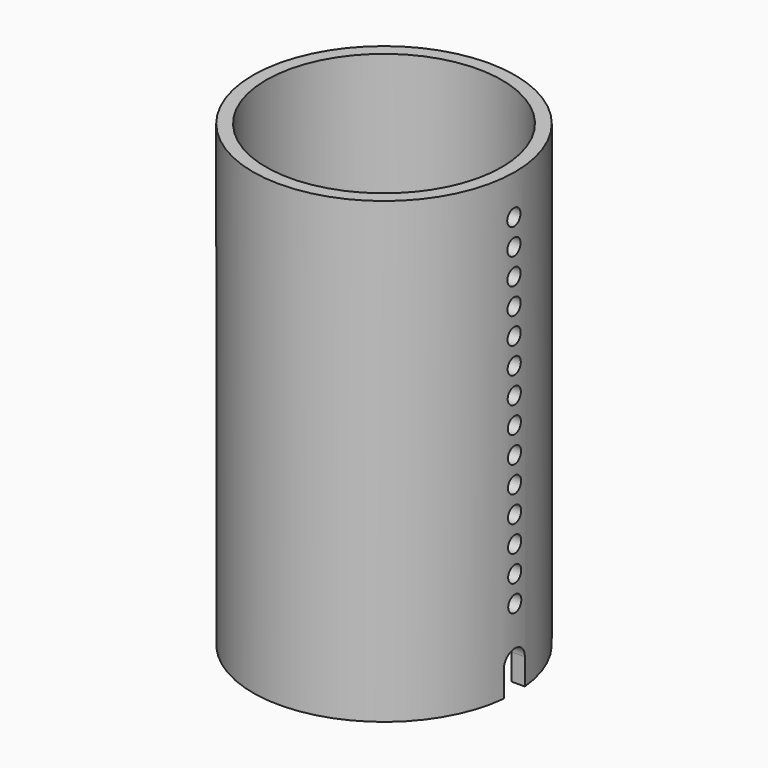
from build123d import *

# Parameters (mm, degrees)
SKETCH006_R      = 1.25
EXTRUDE008_DEPTH = 2
EXTRUDE005_DEPTH = 20
SKETCH_R         = 20
SKETCH_R_2       = 18
EXTRUDE_DEPTH    = 70


with BuildPart() as extrude008:
    # Sketch006 → Extrude008 (new body)
    with BuildSketch(Plane(origin=(20, 0, 12), x_dir=(0, 1, 0), z_dir=(1, 0, 0))):
        Circle(SKETCH006_R)
        with Locations((-0.013333, 3.999978)):
            Circle(SKETCH006_R)
        with Locations((-0.026665, 7.999956)):
            Circle(SKETCH006_R)
        with Locations((-0.039998, 11.999933)):
            Circle(SKETCH006_R)
        with Locations((-0.053331, 15.999911)):
            Circle(SKETCH006_R)
        with Locations((-0.066663, 19.999889)):
            Circle(SKETCH006_R)
        with Locations((-0.079996, 23.999867)):
            Circle(SKETCH006_R)
        with Locations((-0.093328, 27.999844)):
            Circle(SKETCH006_R)
        with Locations((-0.106661, 31.999822)):
            Circle(SKETCH006_R)
        with Locations((-0.119994, 35.9998)):
            Circle(SKETCH006_R)
        with Locations((-0.133326, 39.999778)):
            Circle(SKETCH006_R)
        with Locations((-0.146659, 43.999756)):
            Circle(SKETCH006_R)
        with Locations((-0.159992, 47.999733)):
            Circle(SKETCH006_R)
        with Locations((-0.173324, 51.999711)):
            Circle(SKETCH006_R)
    extrude(amount=-EXTRUDE008_DEPTH)


with BuildPart() as extrude005:
    # Sketch004 → Extrude005 (new body, symmetric)
    with BuildSketch(Plane.YZ):
        with BuildLine():
            Line((2, 4), (2, 0))
            Line((2, 0), (-2, 0))
            Line((-2, 0), (-2, 4))
            ThreePointArc((2, 4), (0, 6), (-2, 4))
        make_face()
    extrude(amount=EXTRUDE005_DEPTH, both=True)


with BuildPart() as extrude005_1:
    # Extrude005 placement: moved
    add(extrude005.part.moved(Location((10, 0, 0))))


with BuildPart() as cut001:
    # Sketch → Extrude (new body)
    with BuildSketch(Plane.XY):
        Circle(SKETCH_R)
        Circle(SKETCH_R_2, mode=Mode.SUBTRACT)
    extrude(amount=EXTRUDE_DEPTH)

    # Cut: cut Extrude005
    add(extrude005_1.part, mode=Mode.SUBTRACT)

    # Cut001: cut Extrude008
    add(extrude008.part, mode=Mode.SUBTRACT)


solid = cut001.part
